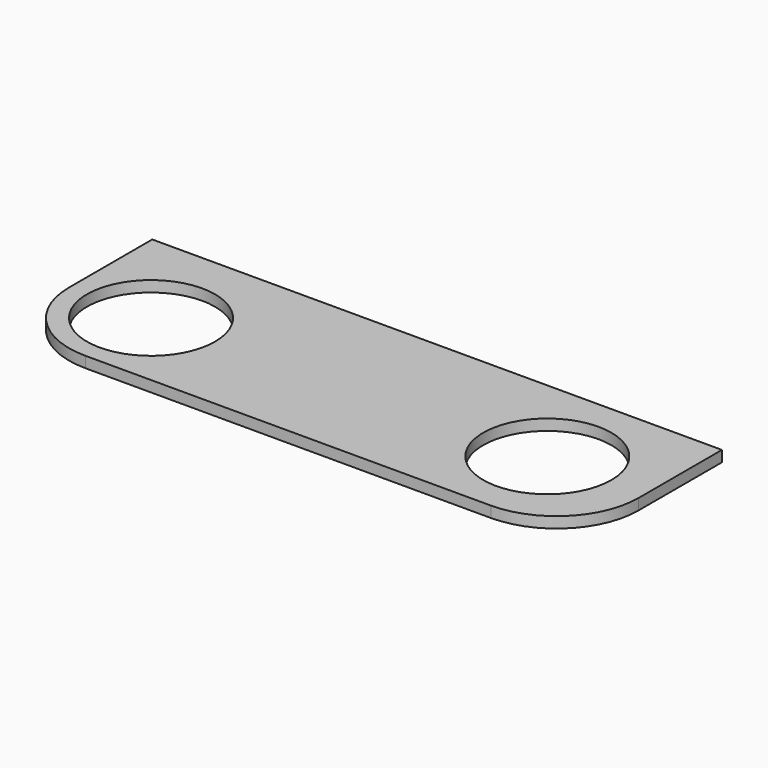
from build123d import *

# Parameters (mm, degrees)
SKETCH_R  = 58.5
PAD_DEPTH = 10


with BuildPart() as part:
    # Sketch → Pad (new body)
    with BuildSketch(Plane.XY):
        with BuildLine():
            Line((75, 0), (445, 0))
            ThreePointArc((445, 0), (498.033009, 21.966991), (520, 75))
            Line((520, 75), (520, 170))
            Line((520, 170), (0, 170))
            Line((0, 170), (0, 75))
            ThreePointArc((0, 75), (21.966991, 21.966991), (75, 0))
        make_face()
        with Locations((75, 74.82)):
            Circle(SKETCH_R, mode=Mode.SUBTRACT)
        with Locations((429.0695, 84.434)):
            Circle(SKETCH_R, mode=Mode.SUBTRACT)
    extrude(amount=PAD_DEPTH)


solid = part.part
